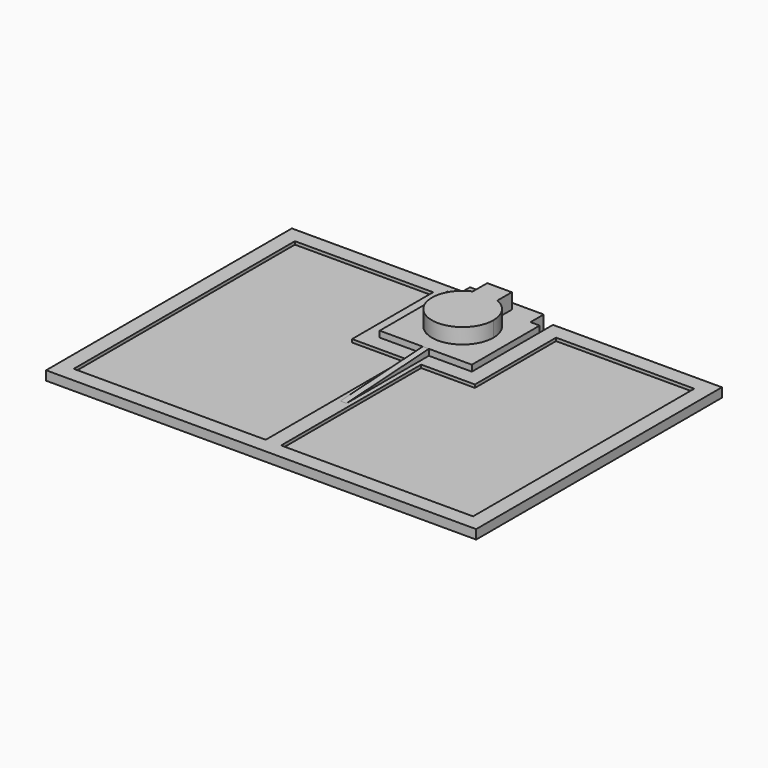
from build123d import *

# Parameters (mm, degrees)
F1_DEPTH = 3
F2_DEPTH = 5
F3_DEPTH = 10
F5_DEPTH = 1
F6_DEPTH = 2


with BuildPart() as f1:
    # F0 (on Top) → F1 (new body)
    with BuildSketch(Plane.XY):
        Polygon((15, -15), (-15, -15), (-15, 12.604296), (-15, 18), (-70, 18), (-70, -82), (70, -82), (70, 18), (15, 18), (15, 12.604296), align=None)
        Polygon((-2.5, -77), (-65, -77), (-65, 13), (-20, 13), (-20, -20), (-2.5, -20), align=None, mode=Mode.SUBTRACT)
        Polygon((2.5, -20), (20, -20), (20, 13), (65, 13), (65, -77), (2.5, -77), align=None, mode=Mode.SUBTRACT)
        Polygon((-15, 12.604296), (-15, -15), (15, -15), (15, 12.604296), (12, 12.604296), (12, 18), (-12, 18), (-12, 12.604296), align=None)
        with BuildLine():
            ThreePointArc((4, 9.165151), (8.3666, 5.477226), (10, 0))
            ThreePointArc((10, 0), (-5.477226, -8.3666), (-4, 9.165151))
            Line((-4, 9.165151), (-4, 15))
            Line((-4, 15), (4, 15))
            Line((4, 15), (4, 9.165151))
        make_face(mode=Mode.SUBTRACT)
    extrude(amount=F1_DEPTH)

    # F0 (on Top) → F2 (join)
    with BuildSketch(Plane.XY):
        Polygon((-15, 12.604296), (-15, -15), (15, -15), (15, 12.604296), (12, 12.604296), (12, 18), (-12, 18), (-12, 12.604296), align=None)
        with BuildLine():
            ThreePointArc((4, 9.165151), (8.3666, 5.477226), (10, 0))
            ThreePointArc((10, 0), (-5.477226, -8.3666), (-4, 9.165151))
            Line((-4, 9.165151), (-4, 15))
            Line((-4, 15), (4, 15))
            Line((4, 15), (4, 9.165151))
        make_face(mode=Mode.SUBTRACT)
    extrude(amount=F2_DEPTH)

    # F0 (on Top) → F3 (join)
    with BuildSketch(Plane.XY):
        with BuildLine():
            ThreePointArc((-4, 9.165151), (0, 10), (4, 9.165151))
            Line((4, 9.165151), (4, 15))
            Line((4, 15), (-4, 15))
            Line((-4, 15), (-4, 9.165151))
        make_face()
        with BuildLine():
            Line((4, 0), (4, 9.165151))
            ThreePointArc((4, 9.165151), (0, 10), (-4, 9.165151))
            Line((-4, 9.165151), (-4, 0))
            Line((-4, 0), (4, 0))
        make_face()
        with BuildLine():
            ThreePointArc((-4, 9.165151), (-5.477226, -8.3666), (10, 0))
            ThreePointArc((10, 0), (8.3666, 5.477226), (4, 9.165151))
            Line((4, 9.165151), (4, 0))
            Line((4, 0), (-4, 0))
            Line((-4, 0), (-4, 9.165151))
        make_face()
    extrude(amount=F3_DEPTH)

    # F4 (on Right) → F5 (join, symmetric)
    with BuildSketch(Plane.YZ):
        Polygon((-15, 3), (-15, 5), (-48.5, 3), align=None)
    extrude(amount=F5_DEPTH, both=True)

    # F0 (on Top) → F6 (join)
    with BuildSketch(Plane.XY):
        Polygon((-65, 13), (-65, -77), (-2.5, -77), (-2.5, -20), (-20, -20), (-20, 13), align=None)
        Polygon((20, 13), (20, -20), (2.5, -20), (2.5, -77), (65, -77), (65, 13), align=None)
    extrude(amount=F6_DEPTH)


solid = f1.part
